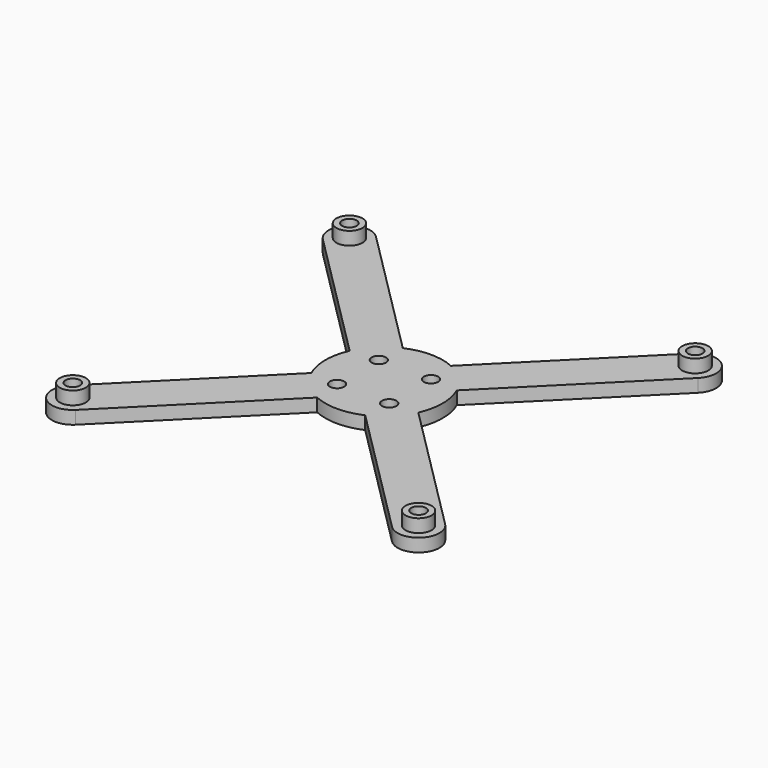
from build123d import *

# Parameters (mm, degrees)
PAD045_DEPTH    = 5
SKETCH132_R     = 2.75
HOLE028_DEPTH   = 25
SKETCH141_R     = 5
PAD049_DEPTH    = 5
SKETCH136_R     = 2.8
POCKET041_DEPTH = 9.1


with BuildPart() as part:
    # Sketch129 → Pad045 (new body)
    with BuildSketch(Plane.XY):
        with BuildLine():
            ThreePointArc((-9.213418, 97.472873), (0, 95.5), (9.213418, 97.472873))
            Line((9.213418, 97.472873), (60.634406, 46.051885))
            ThreePointArc((60.634406, 46.051885), (71.94812, 46.05189), (71.948104, 57.365604))
            Line((20.527127, 108.786582), (71.948104, 57.365604))
            ThreePointArc((20.527127, 108.786582), (22.5, 118), (20.527127, 127.213418))
            Line((20.527127, 127.213418), (71.948104, 178.634396))
            ThreePointArc((71.948104, 178.634396), (71.948104, 189.948104), (60.634396, 189.948104))
            Line((9.213418, 138.527127), (60.634396, 189.948104))
            ThreePointArc((9.213418, 138.527127), (0, 140.5), (-9.213418, 138.527127))
            Line((-9.213418, 138.527127), (-60.634396, 189.948104))
            ThreePointArc((-60.634396, 189.948104), (-71.948104, 189.948104), (-71.948104, 178.634396))
            Line((-20.527127, 127.213418), (-71.948104, 178.634396))
            ThreePointArc((-20.527127, 127.213418), (-22.5, 118), (-20.527127, 108.786582))
            Line((-20.527127, 108.786582), (-71.948121, 57.365588))
            ThreePointArc((-71.948121, 57.365588), (-71.948112, 46.051882), (-60.634406, 46.051885))
            Line((-9.213418, 97.472873), (-60.634406, 46.051885))
        make_face()
    extrude(amount=PAD045_DEPTH)

    # Sketch132 → Hole028 (cut)
    with BuildSketch(Plane.XY.offset(6)):
        with Locations((10, 128)):
            Circle(SKETCH132_R)
        with Locations((10, 108)):
            Circle(SKETCH132_R)
        with Locations((-10, 108)):
            Circle(SKETCH132_R)
        with Locations((-10, 128)):
            Circle(SKETCH132_R)
    extrude(amount=-HOLE028_DEPTH, mode=Mode.SUBTRACT)

    # Sketch141 (on Face5 of Hole028) → Pad049 (join)
    with BuildSketch(Plane.XY.offset(5)):
        with Locations((-66.291261, 51.708739)):
            Circle(SKETCH141_R)
        with Locations((66.291261, 51.708739)):
            Circle(SKETCH141_R)
        with Locations((66.291261, 184.291261)):
            Circle(SKETCH141_R)
        with Locations((-66.291261, 184.291261)):
            Circle(SKETCH141_R)
    extrude(amount=PAD049_DEPTH)

    # Sketch136 (on Face30 of Pad049) → Pocket041 (cut)
    with BuildSketch(Plane.XY.offset(10)):
        with Locations((-66.291261, 184.291261)):
            Circle(SKETCH136_R)
        with Locations((66.291261, 184.291261)):
            Circle(SKETCH136_R)
        with Locations((66.291261, 51.708739)):
            Circle(SKETCH136_R)
        with Locations((-66.291261, 51.708739)):
            Circle(SKETCH136_R)
    extrude(amount=-POCKET041_DEPTH, mode=Mode.SUBTRACT)


with BuildPart() as part_1:
    # Body020 placement: moved
    add(part.part.moved(Location((0, 0, 10))))


solid = part_1.part
